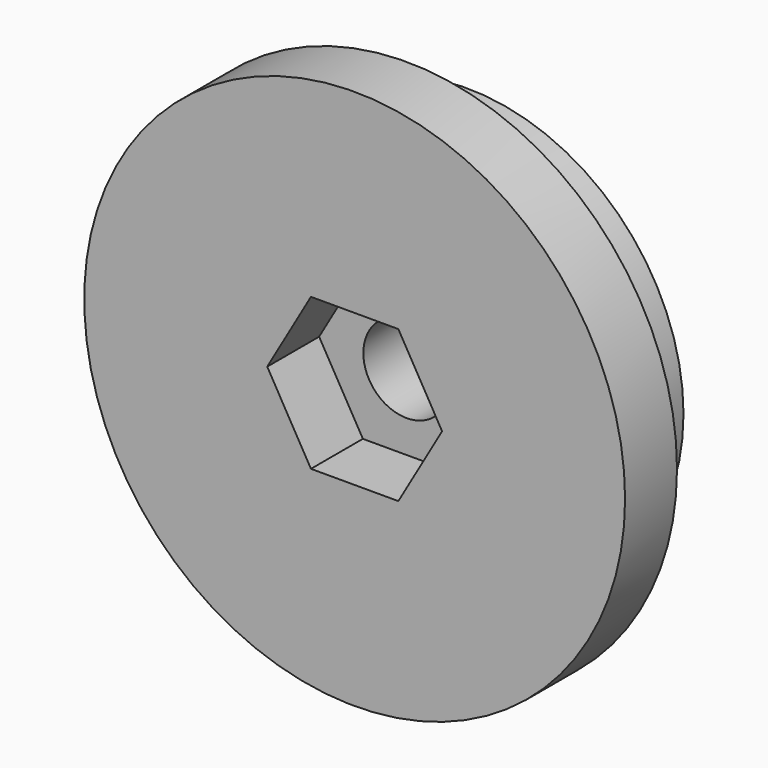
from build123d import *

# Parameters (mm, degrees)
F0_R     = 10
F1_DEPTH = 3.5
F2_R     = 12.5
F2_R_2   = 10
F3_DEPTH = 3
F4_R     = 2
F5_DEPTH = 25
F7_DEPTH = 3


with BuildPart() as f1:
    # F0 (on Front) → F1 (new body)
    with BuildSketch(Plane.XZ):
        Circle(F0_R)
    extrude(amount=F1_DEPTH)


with BuildPart() as f3:
    # F2 (on face) → F3 (new body)
    with BuildSketch(Plane.XZ.offset(3.5)):
        Circle(F2_R)
        Circle(F2_R_2, mode=Mode.SUBTRACT)
        Circle(F2_R_2)
    extrude(amount=F3_DEPTH)


with BuildPart() as f5_tool:
    # F4 (on face) → F5 (new body)
    with BuildSketch(Plane.XZ.offset(6.5)):
        Circle(F4_R)
    extrude(amount=-F5_DEPTH)


with BuildPart() as f1_1:
    add(f1.part)

    # F5: cut by f5_tool
    add(f5_tool.part, mode=Mode.SUBTRACT)


with BuildPart() as f3_1:
    add(f3.part)

    # F5: cut by f5_tool
    add(f5_tool.part, mode=Mode.SUBTRACT)

    # F6 (on face) → F7 (cut)
    with BuildSketch(Plane.XZ.offset(6.5)):
        Polygon((2.020726, 3.5), (-2.020726, 3.5), (-4.041452, 0), (-2.020726, -3.5), (2.020726, -3.5), (4.041452, 0), align=None)
    extrude(amount=-F7_DEPTH, mode=Mode.SUBTRACT)


solid = Compound([f1_1.part, f3_1.part])
